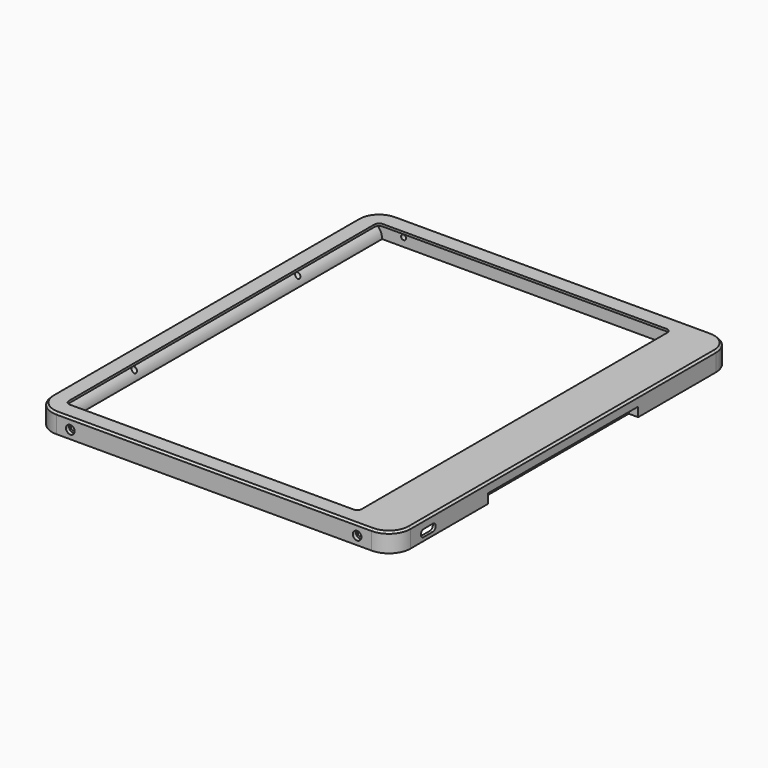
from build123d import *

# Parameters (mm, degrees)
PAD004_DEPTH      = 1.2
PAD004_DEPTH_BACK = 9
SKETCH007_W       = 175.4
SKETCH007_H       = 217.7
POCKET001_DEPTH   = 19
PAD005_DEPTH      = 110
POCKET002_DEPTH   = 50
POCKET003_DEPTH   = 69.5
POCKET004_DEPTH   = 17
POCKET005_DEPTH   = 9.2
SKETCH034_R       = 2.3
POCKET023_DEPTH   = 2
SKETCH035_R       = 1.25
POCKET024_DEPTH   = 16
SKETCH037_R       = 2.3
POCKET026_DEPTH   = 2
SKETCH038_R       = 1.3
POCKET027_DEPTH   = 20
CHAMFER002_SIZE   = 1
HOLE_D            = 2.7
HOLE_DEPTH        = 25
HOLE_CBORE_D      = 4.6
HOLE_CBORE_DEPTH  = 2
HOLE_TIPS_R       = 1.35
SKETCH058_W       = 4.368927
SKETCH058_H       = 1.6
POCKET037_DEPTH   = 3


with BuildPart() as part:
    # Sketch006 → Pad004 (new body, two sides)
    with BuildSketch(Plane.XY) as pad004_sk:
        with BuildLine():
            ThreePointArc((-75.625, 113.33), (-83.756728, 109.961728), (-87.125, 101.83))
            Line((-87.125, -101.83), (-87.125, 101.83))
            ThreePointArc((-87.125, -101.83), (-83.756728, -109.961728), (-75.625, -113.33))
            Line((92.538879, -113.33), (-75.625, -113.33))
            ThreePointArc((92.538879, -113.33), (100.670607, -109.961728), (104.038879, -101.83))
            Line((104.038879, 101.83), (104.038879, -101.83))
            ThreePointArc((104.038879, 101.83), (100.670607, 109.961728), (92.538879, 113.33))
            Line((-75.625, 113.33), (92.538879, 113.33))
        make_face()
        with BuildLine():
            ThreePointArc((-75.625, 104.33), (-77.392767, 103.597767), (-78.125, 101.83))
            Line((-78.125, -101.83), (-78.125, 101.83))
            ThreePointArc((-78.125, -101.83), (-77.392767, -103.597767), (-75.625, -104.33))
            Line((75.625, -104.33), (-75.625, -104.33))
            ThreePointArc((75.625, -104.33), (77.392767, -103.597767), (78.125, -101.83))
            Line((78.125, 101.83), (78.125, -101.83))
            ThreePointArc((78.125, 101.83), (77.392767, 103.597767), (75.625, 104.33))
            Line((-75.625, 104.33), (75.625, 104.33))
        make_face(mode=Mode.SUBTRACT)
    extrude(amount=PAD004_DEPTH)
    extrude(pad004_sk.sketch, amount=-PAD004_DEPTH_BACK)

    # Sketch007 → Pocket001 (cut)
    with BuildSketch(Plane(origin=(0, 0, 0), x_dir=(-1, 0, 0), z_dir=(0, 0, -1))):
        with Locations((-5.066844, 0)):
            Rectangle(SKETCH007_W, SKETCH007_H)
    extrude(amount=POCKET001_DEPTH, mode=Mode.SUBTRACT)

    # Sketch008 → Pad005 (join, symmetric)
    with BuildSketch(Plane.XZ):
        with BuildLine():
            ThreePointArc((-79.625, -9), (-80.634367, -5.242118), (-83.390781, -2.495724))
            Line((-83.390781, -2.495724), (-83.390781, -9))
            Line((-79.625, -9), (-83.390781, -9))
        make_face()
    extrude(amount=PAD005_DEPTH, both=True)

    # Sketch009 → Pocket002 (cut, symmetric)
    with BuildSketch(Plane.XZ):
        with BuildLine():
            ThreePointArc((-82.125, -9), (-83.589466, -5.464466), (-87.125, -4))
            Line((-87.125, -9), (-87.125, -4))
            Line((-82.125, -9), (-87.125, -9))
        make_face()
        with BuildLine():
            ThreePointArc((104.038879, -4), (100.503345, -5.464466), (99.038879, -9))
            Line((99.038879, -9), (104.038879, -9))
            Line((104.038879, -9), (104.038879, -4))
        make_face()
    extrude(amount=POCKET002_DEPTH, both=True, mode=Mode.SUBTRACT)

    # Sketch010 → Pocket003 (cut, symmetric)
    with BuildSketch(Plane.XZ):
        with BuildLine():
            Line((92.766844, 0), (96.966844, 0))
            ThreePointArc((93.766844, -9), (96.143042, -4.775982), (96.966844, 0))
            Line((92.766844, -9), (93.766844, -9))
            Line((92.766844, -8), (92.766844, -9))
            Line((92.766844, -8), (92.766844, 0))
        make_face()
    extrude(amount=POCKET003_DEPTH, both=True, mode=Mode.SUBTRACT)

    # Sketch011 (on DatumPlane) → Pocket004 (cut)
    with BuildSketch(Plane.YZ.offset(104.038879)):
        with BuildLine():
            ThreePointArc((-93.025352, -3.338275), (-94.925352, -5.238275), (-93.025352, -7.138275))
            Line((-93.025352, -7.138275), (-86.925352, -7.138275))
            ThreePointArc((-86.925352, -7.138275), (-85.025352, -5.238275), (-86.925352, -3.338275))
            Line((-86.925352, -3.338275), (-93.025352, -3.338275))
        make_face()
    extrude(amount=-POCKET004_DEPTH, mode=Mode.SUBTRACT)

    # Sketch012 (on DatumPlane) → Pocket005 (cut)
    with BuildSketch(Plane(origin=(0, 0, -9.2), x_dir=(1, 0, 0), z_dir=(0, 0, -1))):
        with BuildLine():
            ThreePointArc((102.538879, 99.723724), (102.099539, 100.784384), (101.038879, 101.223724))
            Line((49.822763, 101.223724), (101.038879, 101.223724))
            ThreePointArc((49.822763, 101.223724), (48.762103, 100.784384), (48.322763, 99.723724))
            Line((48.322763, 72.43325), (48.322763, 99.723724))
            ThreePointArc((48.322763, 72.43325), (48.762103, 71.37259), (49.822763, 70.93325))
            Line((101.038879, 70.93325), (49.822763, 70.93325))
            ThreePointArc((101.038879, 70.93325), (102.099539, 71.37259), (102.538879, 72.43325))
            Line((102.538879, 99.723724), (102.538879, 72.43325))
        make_face()
    extrude(amount=-POCKET005_DEPTH, mode=Mode.SUBTRACT)

    # Sketch034 (on DatumPlane) → Pocket023 (cut)
    with BuildSketch(Plane.XZ.offset(113.33)):
        with Locations((-68.2, -4.5)):
            Circle(SKETCH034_R)
        with Locations((84.8, -4.5)):
            Circle(SKETCH034_R)
    extrude(amount=-POCKET023_DEPTH, mode=Mode.SUBTRACT)

    # Sketch035 (on DatumPlane) → Pocket024 (cut)
    with BuildSketch(Plane.XZ.offset(113.33)):
        with Locations((84.8, -4.5)):
            Circle(SKETCH035_R)
        with Locations((-68.2, -4.5)):
            Circle(SKETCH035_R)
    extrude(amount=-POCKET024_DEPTH, mode=Mode.SUBTRACT)

    # Sketch037 (on DatumPlane) → Pocket026 (cut)
    with BuildSketch(Plane(origin=(0, 113.33, 0), x_dir=(-1, 0, 0), z_dir=(0, 1, 0))):
        with Locations((-84.8, -4.5)):
            Circle(SKETCH037_R)
        with Locations((68.2, -4.5)):
            Circle(SKETCH037_R)
    extrude(amount=-POCKET026_DEPTH, mode=Mode.SUBTRACT)

    # Sketch038 (on DatumPlane) → Pocket027 (cut)
    with BuildSketch(Plane(origin=(0, 113.33, 0), x_dir=(-1, 0, 0), z_dir=(0, 1, 0))):
        with Locations((-84.8, -4.5)):
            Circle(SKETCH038_R)
        with Locations((68.2, -4.5)):
            Circle(SKETCH038_R)
    extrude(amount=-POCKET027_DEPTH, mode=Mode.SUBTRACT)

    # Chamfer002
    chamfer002_edges = [part.edges().sort_by_distance(p)[0] for p in [
        (100.670607, 109.961728, 1.2),
    ]]
    chamfer(chamfer002_edges, length=CHAMFER002_SIZE)

    # Hole
    with Locations(Plane(origin=(-87.125, 0, 0), x_dir=(0, -1, 0), z_dir=(-1, 0, 0))):
        with Locations((-54.5, -4.5), (54.5, -4.5)):
            CounterBoreHole(HOLE_D / 2, HOLE_CBORE_D / 2, HOLE_CBORE_DEPTH, depth=HOLE_DEPTH)

    # Hole tips → Hole tip 1 section 0
    with BuildSketch(Plane(origin=(-62.125, 0, 0), x_dir=(0, -1, 0), z_dir=(-1, 0, 0)), mode=Mode.PRIVATE) as hole_tip_1_s0:
        with Locations((-54.5, -4.5)):
            Circle(HOLE_TIPS_R)
    loft([hole_tip_1_s0.sketch, Vertex(-61.313838, 54.5, -4.5)], mode=Mode.SUBTRACT)

    # Hole tips → Hole tip 2 section 0
    with BuildSketch(Plane(origin=(-62.125, 0, 0), x_dir=(0, -1, 0), z_dir=(-1, 0, 0)), mode=Mode.PRIVATE) as hole_tip_2_s0:
        with Locations((54.5, -4.5)):
            Circle(HOLE_TIPS_R)
    loft([hole_tip_2_s0.sketch, Vertex(-61.313838, -54.5, -4.5)], mode=Mode.SUBTRACT)

    # Sketch058 → Pocket037 (cut, symmetric)
    with BuildSketch(Plane.XZ.offset(12)):
        with Locations((94.184463, -7.2)):
            Rectangle(SKETCH058_W, SKETCH058_H)
    pocket037 = extrude(amount=POCKET037_DEPTH, both=True, mode=Mode.SUBTRACT)

    # Mirrored: Pocket037 across XZ
    add(pocket037.mirror(Plane.XZ), mode=Mode.SUBTRACT)


solid = part.part
